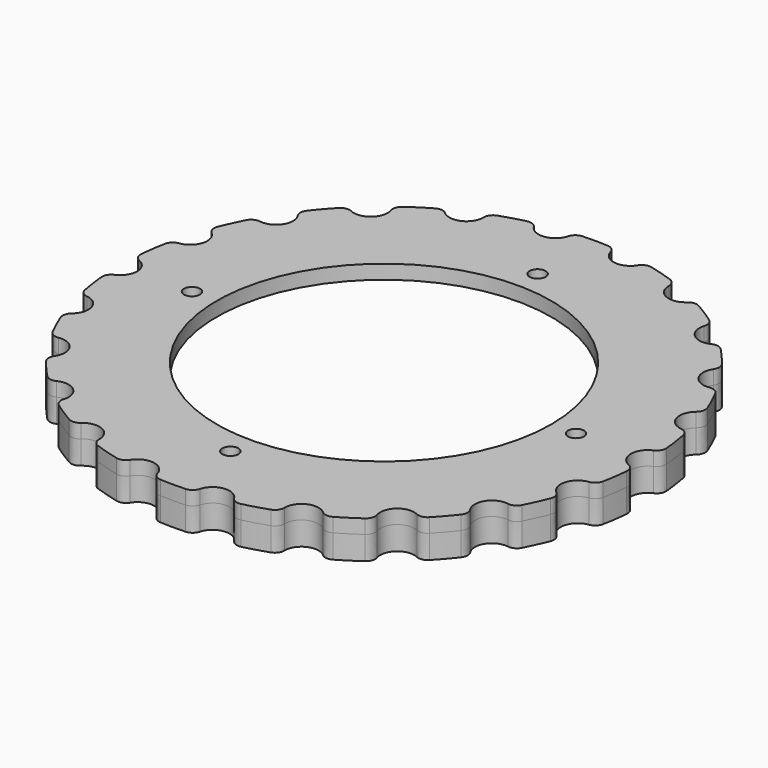
from build123d import *

# Parameters (mm, degrees)
F0_R     = 35.5
F1_DEPTH = 3
F2_R     = 2
F4_D     = 3.4
F5_R     = 46.75
F6_DEPTH = 5


with BuildPart() as f1:
    # F0 (on Top) → F1 (new body)
    with BuildSketch(Plane.XY):
        with BuildLine():
            ThreePointArc((55.8842857143, -3.5981398255), (52.4, 0), (55.8842857143, 3.5981398255))
            ThreePointArc((55.8842857143, 3.5981398255), (55.4300007453, 7.9696309433), (54.6342926112, 12.2920328209))
            ThreePointArc((54.6342926112, 12.2920328209), (50.2774318174, 14.7627859785), (52.6068663454, 19.1968125822))
            ThreePointArc((52.6068663454, 19.1968125822), (50.9393917399, 23.2632407281), (48.9581540435, 27.1863780716))
            ThreePointArc((48.9581540435, 27.1863780716), (44.0816851204, 28.3295788347), (45.0675515303, 33.2402737513))
            ThreePointArc((45.0675515303, 33.2402737513), (42.3219761638, 36.6722011009), (39.3157170005, 39.8782446547))
            ThreePointArc((39.3157170005, 39.8782446547), (34.3147024587, 39.6012776962), (33.8771317173, 44.5908056286))
            ThreePointArc((33.8771317173, 44.5908056286), (30.2758857775, 47.1101978385), (26.4881543857, 49.3394130208))
            ThreePointArc((26.4881543857, 49.3394130208), (21.7677466813, 47.6647165566), (19.9421881675, 52.3288556257))
            ThreePointArc((19.9421881675, 52.3288556257), (15.7770231831, 53.7316065224), (11.5146790336, 54.8033955768))
            ThreePointArc((11.5146790336, 54.8033955768), (7.4572975255, 51.8666435546), (4.3916471332, 55.8275329516))
            ThreePointArc((4.3916471332, 55.8275329516), (0, 56), (-4.3916471332, 55.8275329516))
            ThreePointArc((-4.3916471332, 55.8275329516), (-4.3751392048, 55.6290714411), (-4.3696309433, 55.4300007453))
            ThreePointArc((-4.3696309433, 55.4300007453), (-7.655125876, 51.843765036), (-11.5146790336, 54.8033955768))
            ThreePointArc((-11.5146790336, 54.8033955768), (-15.7770231831, 53.7316065224), (-19.9421881675, 52.3288556257))
            ThreePointArc((-19.9421881675, 52.3288556257), (-19.7336664465, 51.6479856934), (-19.6632407281, 50.9393917399))
            ThreePointArc((-19.6632407281, 50.9393917399), (-22.4415623139, 47.434417477), (-26.4881543857, 49.3394130208))
            ThreePointArc((-26.4881543857, 49.3394130208), (-30.2758857775, 47.1101978385), (-33.8771317173, 44.5908056286))
            ThreePointArc((-33.8771317173, 44.5908056286), (-33.2793962302, 43.5256684457), (-33.0722011009, 42.3219761638))
            ThreePointArc((-33.0722011009, 42.3219761638), (-35.3600763428, 38.9696145158), (-39.3157170005, 39.8782446547))
            ThreePointArc((-39.3157170005, 39.8782446547), (-42.3219761638, 36.6722011009), (-45.0675515303, 33.2402737513))
            ThreePointArc((-45.0675515303, 33.2402737513), (-43.9232301018, 31.950172684), (-43.5101978385, 30.2758857775))
            ThreePointArc((-43.5101978385, 30.2758857775), (-45.3343378128, 27.1443811601), (-48.9581540435, 27.1863780716))
            ThreePointArc((-48.9581540435, 27.1863780716), (-50.9393917399, 23.2632407281), (-52.6068663454, 19.1968125822))
            ThreePointArc((-52.6068663454, 19.1968125822), (-50.8153533923, 17.887821061), (-50.1316065224, 15.7770231831))
            ThreePointArc((-50.1316065224, 15.7770231831), (-51.528162618, 12.9301239998), (-54.6342926112, 12.2920328209))
            ThreePointArc((-54.6342926112, 12.2920328209), (-55.4300007453, 7.9696309433), (-55.8842857143, 3.5981398255))
            ThreePointArc((-55.8842857143, 3.5981398255), (-53.4138279805, 2.5043390916), (-52.4, 0))
            ThreePointArc((-52.4, 0), (-53.4138279805, -2.5043390916), (-55.8842857143, -3.5981398255))
            ThreePointArc((-55.8842857143, -3.5981398255), (-55.4300007453, -7.9696309433), (-54.6342926112, -12.2920328209))
            ThreePointArc((-54.6342926112, -12.2920328209), (-51.528162618, -12.9301239998), (-50.1316065224, -15.7770231831))
            ThreePointArc((-50.1316065224, -15.7770231831), (-50.8153533923, -17.887821061), (-52.6068663454, -19.1968125822))
            ThreePointArc((-52.6068663454, -19.1968125822), (-50.9393917399, -23.2632407281), (-48.9581540435, -27.1863780716))
            ThreePointArc((-48.9581540435, -27.1863780716), (-45.3343378128, -27.1443811601), (-43.5101978385, -30.2758857775))
            ThreePointArc((-43.5101978385, -30.2758857775), (-43.9232301018, -31.950172684), (-45.0675515303, -33.2402737513))
            ThreePointArc((-45.0675515303, -33.2402737513), (-42.3219761638, -36.6722011009), (-39.3157170005, -39.8782446547))
            ThreePointArc((-39.3157170005, -39.8782446547), (-35.3600763428, -38.9696145158), (-33.0722011009, -42.3219761638))
            ThreePointArc((-33.0722011009, -42.3219761638), (-33.2793962302, -43.5256684457), (-33.8771317173, -44.5908056286))
            ThreePointArc((-33.8771317173, -44.5908056286), (-30.2758857775, -47.1101978385), (-26.4881543857, -49.3394130208))
            ThreePointArc((-26.4881543857, -49.3394130208), (-22.4415623139, -47.434417477), (-19.6632407281, -50.9393917399))
            ThreePointArc((-19.6632407281, -50.9393917399), (-19.7336664465, -51.6479856934), (-19.9421881675, -52.3288556257))
            ThreePointArc((-19.9421881675, -52.3288556257), (-15.7770231831, -53.7316065224), (-11.5146790336, -54.8033955768))
            ThreePointArc((-11.5146790336, -54.8033955768), (-7.655125876, -51.843765036), (-4.3696309433, -55.4300007453))
            ThreePointArc((-4.3696309433, -55.4300007453), (-4.3751392048, -55.6290714411), (-4.3916471332, -55.8275329516))
            ThreePointArc((-4.3916471333, -55.8275329516), (0, -56), (4.3916471332, -55.8275329516))
            ThreePointArc((4.3916471332, -55.8275329516), (7.4572975255, -51.8666435546), (11.5146790336, -54.8033955768))
            ThreePointArc((11.5146790336, -54.8033955768), (15.7770231831, -53.7316065224), (19.9421881675, -52.3288556257))
            ThreePointArc((19.9421881675, -52.3288556257), (21.7677466813, -47.6647165566), (26.4881543857, -49.3394130208))
            ThreePointArc((26.4881543857, -49.3394130208), (30.2758857775, -47.1101978385), (33.8771317173, -44.5908056286))
            ThreePointArc((33.8771317173, -44.5908056286), (34.3147024587, -39.6012776962), (39.3157170005, -39.8782446547))
            ThreePointArc((39.3157170005, -39.8782446547), (42.3219761638, -36.6722011009), (45.0675515303, -33.2402737513))
            ThreePointArc((45.0675515303, -33.2402737513), (44.0816851204, -28.3295788347), (48.9581540435, -27.1863780716))
            ThreePointArc((48.9581540435, -27.1863780716), (50.9393917399, -23.2632407281), (52.6068663454, -19.1968125822))
            ThreePointArc((52.6068663454, -19.1968125822), (50.2774318174, -14.7627859785), (54.6342926112, -12.2920328209))
            ThreePointArc((54.6342926112, -12.2920328209), (55.4300007453, -7.9696309433), (55.8842857143, -3.5981398255))
        make_face()
        Circle(F0_R, mode=Mode.SUBTRACT)
    extrude(amount=F1_DEPTH)

    # F2
    f2_edges = [f1.edges().sort_by_distance(p)[0] for p in [
        (-26.488154, 49.339413, 1.5),
        (-33.877132, 44.590806, 1.5),
        (-39.315717, 39.878245, 1.5),
        (-45.067552, 33.240274, 1.5),
        (-48.958154, 27.186378, 1.5),
        (-52.606866, 19.196813, 1.5),
        (-54.634293, 12.292033, 1.5),
        (-55.884286, 3.59814, 1.5),
        (-55.884286, -3.59814, 1.5),
        (-54.634293, -12.292033, 1.5),
        (-52.606866, -19.196813, 1.5),
        (-48.958154, -27.186378, 1.5),
        (-45.067552, -33.240274, 1.5),
        (-39.315717, -39.878245, 1.5),
        (-33.877132, -44.590806, 1.5),
        (-26.488154, -49.339413, 1.5),
        (-19.942188, -52.328856, 1.5),
        (-11.514679, -54.803396, 1.5),
        (-4.391647, -55.827533, 1.5),
        (4.391647, -55.827533, 1.5),
        (11.514679, -54.803396, 1.5),
        (19.942188, -52.328856, 1.5),
        (33.877132, -44.590806, 1.5),
        (26.488154, -49.339413, 1.5),
        (39.315717, -39.878245, 1.5),
        (45.067552, -33.240274, 1.5),
        (52.606866, -19.196813, 1.5),
        (48.958154, -27.186378, 1.5),
        (55.884286, -3.59814, 1.5),
        (54.634293, -12.292033, 1.5),
        (55.884286, 3.59814, 1.5),
        (54.634293, 12.292033, 1.5),
        (52.606866, 19.196813, 1.5),
        (48.958154, 27.186378, 1.5),
        (45.067552, 33.240274, 1.5),
        (39.315717, 39.878245, 1.5),
        (33.877132, 44.590806, 1.5),
        (26.488154, 49.339413, 1.5),
        (19.942188, 52.328856, 1.5),
        (11.514679, 54.803396, 1.5),
        (4.391647, 55.827533, 1.5),
        (-4.391647, 55.827533, 1.5),
        (-19.942188, 52.328856, 1.5),
        (-11.514679, 54.803396, 1.5),
    ]]
    fillet(f2_edges, radius=F2_R)

    # F4 (through all)
    with Locations(Plane.XY.offset(3)):
        with Locations((0, 40.75), (40.75, 0), (0, -40.75), (-40.75, 0)):
            Hole(F4_D / 2)

    # F5 (on face) → F6 (join)
    with BuildSketch(Plane(origin=(0, 0, 0), x_dir=(1, 0, 0), z_dir=(0, 0, -1))):
        with BuildLine():
            add(Edge.make_bspline(
                [(54.557244898, -3.2982507054), (54.6241422245, -3.3275136292), (54.6903183715, -3.360098174), (54.7554797201, -3.3960095108), (54.8193275762, -3.4352071462), (55.0246633404, -3.5750602637), (55.1593060917, -3.6894306964), (55.2819026862, -3.8195908053), (55.3893411634, -3.9631334462), (55.5699851774, -4.270284034), (55.6432204557, -4.433942551), (55.6973931082, -4.6043447301), (55.7319118023, -4.7776009742), (55.7543445193, -5.025024586), (55.7575715904, -5.0998750327), (55.7572882145, -5.1742762771), (55.7536041672, -5.2479475929), (55.7466666667, -5.3206348828)],
                knots=[0, 0, 0, 0, 0, 0, 0.15156618, 0.15156618, 0.15156618, 0.15156618, 0.5, 0.5, 0.5, 0.5, 0.84843382, 0.84843382, 0.84843382, 0.84843382, 1, 1, 1, 1, 1, 1], degree=5))
            ThreePointArc((54.557244898, -3.2982507054), (52.4, 0), (54.557244898, 3.2982507054))
            add(Edge.make_bspline(
                [(54.557244898, 3.2982507054), (54.6241422245, 3.3275136292), (54.6903183715, 3.360098174), (54.7554797201, 3.3960095108), (54.8193275762, 3.4352071462), (55.0246633404, 3.5750602637), (55.1593060917, 3.6894306964), (55.2819026862, 3.8195908053), (55.3893411634, 3.9631334462), (55.5699851774, 4.270284034), (55.6432204557, 4.433942551), (55.6973931082, 4.6043447301), (55.7319118023, 4.7776009742), (55.7543445193, 5.025024586), (55.7575715904, 5.0998750327), (55.7572882145, 5.1742762771), (55.7536041672, 5.2479475929), (55.7466666667, 5.3206348828)],
                knots=[0, 0, 0, 0, 0, 0, 0.15156618, 0.15156618, 0.15156618, 0.15156618, 0.5, 0.5, 0.5, 0.5, 0.84843382, 0.84843382, 0.84843382, 0.84843382, 1, 1, 1, 1, 1, 1], degree=5))
            ThreePointArc((55.7466666667, 5.3206348828), (55.4300007453, 7.9696309433), (54.9875310386, 10.6005391502))
            add(Edge.make_bspline(
                [(53.2765177437, 12.2059037223), (53.3489495769, 12.1966733073), (53.421625252, 12.1840526407), (53.4942645009, 12.1679540387), (53.5665693203, 12.1483322027), (53.8029887196, 12.0719938889), (53.9643993678, 12.000189509), (54.1187002791, 11.9098412511), (54.2622273784, 11.8023820127), (54.5220883609, 11.5585664817), (54.6384650283, 11.4221700468), (54.7384511493, 11.2739325531), (54.8203835184, 11.1174194443), (54.9116148396, 10.8863382539), (54.9357989994, 10.8154289472), (54.9564883549, 10.7439616398), (54.9737091456, 10.6722366138), (54.9875310386, 10.6005391502)],
                knots=[0, 0, 0, 0, 0, 0, 0.15156618, 0.15156618, 0.15156618, 0.15156618, 0.5, 0.5, 0.5, 0.5, 0.84843382, 0.84843382, 0.84843382, 0.84843382, 1, 1, 1, 1, 1, 1], degree=5))
            ThreePointArc((53.2765177437, 12.2059037223), (50.2774318174, 14.7627859785), (51.418068535, 18.5352004764))
            add(Edge.make_bspline(
                [(51.418068535, 18.5352004764), (51.4740117315, 18.582125201), (51.5283271524, 18.6320338178), (51.5807316158, 18.6848485665), (51.6309499351, 18.7404464421), (51.7885669816, 18.9324842955), (51.885533881, 19.0801551686), (51.9664941118, 19.2395823306), (52.0291399406, 19.4075794028), (52.1159322822, 19.7531815337), (52.1400930847, 19.9308434929), (52.1440635225, 20.1096053864), (52.1283720424, 20.2855685751), (52.0801887899, 20.529289819), (52.0621973343, 20.6020174676), (52.0409641842, 20.6733251026), (52.0166737586, 20.7429742965), (51.9895388996, 20.8107627206)],
                knots=[0, 0, 0, 0, 0, 0, 0.15156618, 0.15156618, 0.15156618, 0.15156618, 0.5, 0.5, 0.5, 0.5, 0.84843382, 0.84843382, 0.84843382, 0.84843382, 1, 1, 1, 1, 1, 1], degree=5))
            ThreePointArc((51.9895388996, 20.8107627206), (50.9393917399, 23.2632407281), (49.7736326693, 25.6629205451))
            add(Edge.make_bspline(
                [(49.7736326693, 25.6629205451), (49.7401711503, 25.7278196804), (49.7034406477, 25.7917876814), (49.6634546891, 25.8545311957), (49.6202726975, 25.915754712), (49.4676337912, 26.1117726572), (49.3449254205, 26.2388628696), (49.2072261117, 26.3529263577), (49.0571362008, 26.4510106825), (48.739110641, 26.6117386723), (48.5711226317, 26.6744087999), (48.3976179457, 26.7176257282), (48.2225159314, 26.7410468916), (47.9741661906, 26.7476859254), (47.8992621144, 26.7461423176), (47.8250297652, 26.7411239718), (47.7517423129, 26.732758309), (47.6796439695, 26.7212084217)],
                knots=[0, 0, 0, 0, 0, 0, 0.15156618, 0.15156618, 0.15156618, 0.15156618, 0.5, 0.5, 0.5, 0.5, 0.84843382, 0.84843382, 0.84843382, 0.84843382, 1, 1, 1, 1, 1, 1], degree=5))
            ThreePointArc((47.6796439695, 26.7212084217), (44.0816851204, 28.3295788347), (44.1133060544, 32.2705385378))
            add(Edge.make_bspline(
                [(44.1133060544, 32.2705385378), (44.1537629357, 32.3313235012), (44.1918173182, 32.3945128908), (44.2272193984, 32.4599523145), (44.2597397913, 32.5274462209), (44.3568689245, 32.7561110455), (44.4083042905, 32.9251189431), (44.4410692411, 33.1008973177), (44.4538472289, 33.2797386976), (44.4397564989, 33.6357937421), (44.4128854611, 33.8130660284), (44.366332023, 33.9857054108), (44.3017015989, 34.1501200531), (44.1868058976, 34.3703940832), (44.1490534759, 34.4351069722), (44.1085907353, 34.4975440773), (44.0656617971, 34.5575285857), (44.0205278845, 34.6149263291)],
                knots=[0, 0, 0, 0, 0, 0, 0.15156618, 0.15156618, 0.15156618, 0.15156618, 0.5, 0.5, 0.5, 0.5, 0.84843382, 0.84843382, 0.84843382, 0.84843382, 1, 1, 1, 1, 1, 1], degree=5))
            ThreePointArc((44.0205278845, 34.6149263291), (42.3219761638, 36.6722011009), (40.5273705963, 38.6462447406))
            add(Edge.make_bspline(
                [(40.5273705963, 38.6462447406), (40.4769803046, 38.6990878057), (40.4237157769, 38.7501164748), (40.3676726399, 38.7990530895), (40.3089911646, 38.8456308504), (40.1073105696, 38.9907053421), (39.9537672996, 39.0780765648), (39.7895103823, 39.1487253019), (39.6178666197, 39.200551308), (39.2674410221, 39.2651705308), (39.0886014923, 39.2779743865), (38.9099493495, 39.2705588068), (38.7353416928, 39.2436993103), (38.4951814295, 39.1801012091), (38.4237463793, 39.1575172113), (38.3539347932, 39.1317884742), (38.2859728772, 39.1031142182), (38.2200490026, 39.0717197319)],
                knots=[0, 0, 0, 0, 0, 0, 0.15156618, 0.15156618, 0.15156618, 0.15156618, 0.5, 0.5, 0.5, 0.5, 0.84843382, 0.84843382, 0.84843382, 0.84843382, 1, 1, 1, 1, 1, 1], degree=5))
            ThreePointArc((38.2200490026, 39.0717197319), (34.3147024587, 39.6012776962), (33.2347458692, 43.3915094872))
            add(Edge.make_bspline(
                [(33.2347458692, 43.3915094872), (33.2564388593, 43.4612302531), (33.2751492637, 43.5325811869), (33.2906808948, 43.6053437728), (33.3028687524, 43.6792657552), (33.3316411476, 43.9260324867), (33.3333779927, 44.1026853941), (33.3152932417, 44.2805744627), (33.277168192, 44.4557714853), (33.1633359375, 44.7934339814), (33.0876099911, 44.9559550483), (32.9943041597, 45.1084857035), (32.8859707643, 45.2480319029), (32.7136707805, 45.4270134274), (32.6592158695, 45.4784689034), (32.6028015889, 45.5269771957), (32.5447119854, 45.5724374305), (32.4852355004, 45.6147944694)],
                knots=[0, 0, 0, 0, 0, 0, 0.15156618, 0.15156618, 0.15156618, 0.15156618, 0.5, 0.5, 0.5, 0.5, 0.84843382, 0.84843382, 0.84843382, 0.84843382, 1, 1, 1, 1, 1, 1], degree=5))
            ThreePointArc((32.4852355004, 45.6147944694), (30.2758857775, 47.1101978385), (27.9978219831, 48.4986800254))
            add(Edge.make_bspline(
                [(27.9978219831, 48.4986800254), (27.9345852405, 48.5351859893), (27.869101863, 48.5691412871), (27.8015418292, 48.6003064489), (27.7321148943, 48.628465001), (27.4977315731, 48.7108429668), (27.3257925664, 48.7514169031), (27.148285159, 48.7729273486), (26.9689931016, 48.7742964012), (26.6145568641, 48.7375717918), (26.4393543288, 48.6994720834), (26.2700280633, 48.6420247618), (26.1100604382, 48.5670606021), (25.8975460087, 48.4383777059), (25.8353672274, 48.3965829394), (25.7756321239, 48.3522282002), (25.7185016146, 48.3055683687), (25.6640929689, 48.2568726779)],
                knots=[0, 0, 0, 0, 0, 0, 0.15156618, 0.15156618, 0.15156618, 0.15156618, 0.5, 0.5, 0.5, 0.5, 0.84843382, 0.84843382, 0.84843382, 0.84843382, 1, 1, 1, 1, 1, 1], degree=5))
            ThreePointArc((25.6640929689, 48.2568726779), (21.7677466813, 47.6647165566), (19.6637042283, 50.9971583972))
            add(Edge.make_bspline(
                [(19.6637042283, 50.9971583972), (19.6648758903, 51.0701666038), (19.6627265108, 51.1438986534), (19.6571294123, 51.2180896095), (19.647997347, 51.2924509485), (19.6060820358, 51.537328014), (19.5579796512, 51.7073145632), (19.4905103175, 51.8729028115), (19.4045708951, 52.0302620559), (19.2002191284, 52.3221765962), (19.0817731391, 52.4567799535), (18.949273998, 52.576844755), (18.8060141588, 52.6802173084), (18.5902686125, 52.8034063085), (18.5235228251, 52.8374357549), (18.4557273541, 52.868085381), (18.3871831596, 52.8953384244), (18.3181825332, 52.9192232434)],
                knots=[0, 0, 0, 0, 0, 0, 0.15156618, 0.15156618, 0.15156618, 0.15156618, 0.5, 0.5, 0.5, 0.5, 0.84843382, 0.84843382, 0.84843382, 0.84843382, 1, 1, 1, 1, 1, 1], degree=5))
            ThreePointArc((18.3181825332, 52.9192232434), (15.7770231831, 53.7316065224), (13.2000563423, 54.4220406872))
            add(Edge.make_bspline(
                [(13.2000563423, 54.4220406872), (13.1290962136, 54.4392520539), (13.0566990601, 54.4533831243), (12.9830954417, 54.4642520169), (12.9085476045, 54.4717101219), (12.6604498998, 54.4847177889), (12.4840446321, 54.4752073797), (12.3076673292, 54.4458368853), (12.1352521532, 54.3966380719), (11.8055195918, 54.2615448398), (11.6481479185, 54.1756281791), (11.5018653373, 54.0728031559), (11.3694973694, 53.9558074834), (11.2018454289, 53.772464915), (11.1539602715, 53.7148453432), (11.1091410336, 53.6554579592), (11.0674703049, 53.5945926542), (11.0289847532, 53.5325407942)],
                knots=[0, 0, 0, 0, 0, 0, 0.15156618, 0.15156618, 0.15156618, 0.15156618, 0.5, 0.5, 0.5, 0.5, 0.84843382, 0.84843382, 0.84843382, 0.84843382, 1, 1, 1, 1, 1, 1], degree=5))
            ThreePointArc((11.0289847532, 53.5325407942), (7.4572975255, 51.8666435546), (4.4996262154, 54.4713208257))
            add(Edge.make_bspline(
                [(4.4996262154, 54.4713208257), (4.4801816281, 54.5417017822), (4.4573465947, 54.6118416156), (4.4310742104, 54.6814504318), (4.4013620477, 54.7502268139), (4.2921547593, 54.9733757298), (4.1981101141, 55.1229246217), (4.0867221619, 55.2627970745), (3.9599306677, 55.3895702307), (3.6816147535, 55.6120876353), (3.5300445112, 55.7078685194), (3.3690863527, 55.785740531), (3.2025061298, 55.8445648089), (2.9607934421, 55.9019812445), (2.8871641251, 55.9158277979), (2.8134798495, 55.9261357074), (2.7400341069, 55.9329736798), (2.6670993596, 55.9364512729)],
                knots=[0, 0, 0, 0, 0, 0, 0.15156618, 0.15156618, 0.15156618, 0.15156618, 0.5, 0.5, 0.5, 0.5, 0.84843382, 0.84843382, 0.84843382, 0.84843382, 1, 1, 1, 1, 1, 1], degree=5))
            ThreePointArc((2.6670993596, 55.9364512729), (0, 56), (-2.6670993596, 55.9364512729))
            add(Edge.make_bspline(
                [(-2.6670993596, 55.9364512729), (-2.7400341069, 55.9329736798), (-2.8134798495, 55.9261357074), (-2.8871641251, 55.9158277979), (-2.9607934421, 55.9019812445), (-3.2025061298, 55.8445648089), (-3.3690863527, 55.785740531), (-3.5300445112, 55.7078685194), (-3.6816147535, 55.6120876353), (-3.9599306677, 55.3895702307), (-4.0867221619, 55.2627970745), (-4.1981101141, 55.1229246217), (-4.2921547593, 54.9733757298), (-4.4013620477, 54.7502268139), (-4.4310742104, 54.6814504318), (-4.4573465947, 54.6118416156), (-4.4801816281, 54.5417017822), (-4.4996262154, 54.4713208257)],
                knots=[0, 0, 0, 0, 0, 0, 0.15156618, 0.15156618, 0.15156618, 0.15156618, 0.5, 0.5, 0.5, 0.5, 0.84843382, 0.84843382, 0.84843382, 0.84843382, 1, 1, 1, 1, 1, 1], degree=5))
            ThreePointArc((-4.4996262154, 54.4713208257), (-7.4572975255, 51.8666435546), (-11.0289847532, 53.5325407942))
            add(Edge.make_bspline(
                [(-11.0289847532, 53.5325407942), (-11.0674703049, 53.5945926542), (-11.1091410336, 53.6554579592), (-11.1539602715, 53.7148453432), (-11.2018454289, 53.772464915), (-11.3694973694, 53.9558074834), (-11.5018653373, 54.0728031559), (-11.6481479185, 54.1756281791), (-11.8055195918, 54.2615448398), (-12.1352521532, 54.3966380719), (-12.3076673292, 54.4458368853), (-12.4840446321, 54.4752073797), (-12.6604498998, 54.4847177889), (-12.9085476045, 54.4717101219), (-12.9830954417, 54.4642520169), (-13.0566990601, 54.4533831243), (-13.1290962136, 54.4392520539), (-13.2000563423, 54.4220406872)],
                knots=[0, 0, 0, 0, 0, 0, 0.15156618, 0.15156618, 0.15156618, 0.15156618, 0.5, 0.5, 0.5, 0.5, 0.84843382, 0.84843382, 0.84843382, 0.84843382, 1, 1, 1, 1, 1, 1], degree=5))
            ThreePointArc((-13.2000563423, 54.4220406872), (-15.7770231831, 53.7316065224), (-18.3181825332, 52.9192232434))
            add(Edge.make_bspline(
                [(-18.3181825332, 52.9192232434), (-18.3871831596, 52.8953384244), (-18.4557273541, 52.868085381), (-18.5235228251, 52.8374357549), (-18.5902686125, 52.8034063085), (-18.8060141588, 52.6802173084), (-18.949273998, 52.576844755), (-19.0817731391, 52.4567799535), (-19.2002191284, 52.3221765962), (-19.4045708951, 52.0302620559), (-19.4905103175, 51.8729028115), (-19.5579796512, 51.7073145632), (-19.6060820358, 51.537328014), (-19.647997347, 51.2924509485), (-19.6571294123, 51.2180896095), (-19.6627265108, 51.1438986534), (-19.6648758903, 51.0701666038), (-19.6637042283, 50.9971583972)],
                knots=[0, 0, 0, 0, 0, 0, 0.15156618, 0.15156618, 0.15156618, 0.15156618, 0.5, 0.5, 0.5, 0.5, 0.84843382, 0.84843382, 0.84843382, 0.84843382, 1, 1, 1, 1, 1, 1], degree=5))
            ThreePointArc((-19.6637042283, 50.9971583972), (-21.7677466813, 47.6647165566), (-25.6640929689, 48.2568726779))
            add(Edge.make_bspline(
                [(-25.6640929689, 48.2568726779), (-25.7185016146, 48.3055683687), (-25.7756321239, 48.3522282002), (-25.8353672274, 48.3965829394), (-25.8975460087, 48.4383777059), (-26.1100604382, 48.5670606021), (-26.2700280633, 48.6420247618), (-26.4393543288, 48.6994720834), (-26.6145568641, 48.7375717918), (-26.9689931016, 48.7742964012), (-27.148285159, 48.7729273486), (-27.3257925664, 48.7514169031), (-27.4977315731, 48.7108429668), (-27.7321148943, 48.628465001), (-27.8015418292, 48.6003064489), (-27.869101863, 48.5691412871), (-27.9345852405, 48.5351859893), (-27.9978219831, 48.4986800254)],
                knots=[0, 0, 0, 0, 0, 0, 0.15156618, 0.15156618, 0.15156618, 0.15156618, 0.5, 0.5, 0.5, 0.5, 0.84843382, 0.84843382, 0.84843382, 0.84843382, 1, 1, 1, 1, 1, 1], degree=5))
            ThreePointArc((-27.9978219831, 48.4986800254), (-30.2758857775, 47.1101978385), (-32.4852355004, 45.6147944694))
            add(Edge.make_bspline(
                [(-32.4852355004, 45.6147944694), (-32.5447119854, 45.5724374305), (-32.6028015889, 45.5269771957), (-32.6592158695, 45.4784689034), (-32.7136707805, 45.4270134274), (-32.8859707643, 45.2480319029), (-32.9943041597, 45.1084857035), (-33.0876099911, 44.9559550483), (-33.1633359375, 44.7934339814), (-33.277168192, 44.4557714853), (-33.3152932417, 44.2805744627), (-33.3333779927, 44.1026853941), (-33.3316411476, 43.9260324867), (-33.3028687524, 43.6792657552), (-33.2906808948, 43.6053437728), (-33.2751492637, 43.5325811869), (-33.2564388593, 43.4612302531), (-33.2347458692, 43.3915094872)],
                knots=[0, 0, 0, 0, 0, 0, 0.15156618, 0.15156618, 0.15156618, 0.15156618, 0.5, 0.5, 0.5, 0.5, 0.84843382, 0.84843382, 0.84843382, 0.84843382, 1, 1, 1, 1, 1, 1], degree=5))
            ThreePointArc((-33.2347458692, 43.3915094872), (-34.3147024587, 39.6012776962), (-38.2200490026, 39.0717197319))
            add(Edge.make_bspline(
                [(-38.2200490026, 39.0717197319), (-38.2859728772, 39.1031142182), (-38.3539347932, 39.1317884742), (-38.4237463793, 39.1575172113), (-38.4951814295, 39.1801012091), (-38.7353416928, 39.2436993103), (-38.9099493495, 39.2705588068), (-39.0886014923, 39.2779743865), (-39.2674410221, 39.2651705308), (-39.6178666197, 39.200551308), (-39.7895103823, 39.1487253019), (-39.9537672996, 39.0780765648), (-40.1073105696, 38.9907053421), (-40.3089911646, 38.8456308504), (-40.3676726399, 38.7990530895), (-40.4237157769, 38.7501164748), (-40.4769803046, 38.6990878057), (-40.5273705963, 38.6462447406)],
                knots=[0, 0, 0, 0, 0, 0, 0.15156618, 0.15156618, 0.15156618, 0.15156618, 0.5, 0.5, 0.5, 0.5, 0.84843382, 0.84843382, 0.84843382, 0.84843382, 1, 1, 1, 1, 1, 1], degree=5))
            ThreePointArc((-40.5273705963, 38.6462447406), (-42.3219761638, 36.6722011009), (-44.0205278845, 34.6149263291))
            add(Edge.make_bspline(
                [(-44.0205278845, 34.6149263291), (-44.0656617971, 34.5575285857), (-44.1085907353, 34.4975440773), (-44.1490534759, 34.4351069722), (-44.1868058976, 34.3703940832), (-44.3017015989, 34.1501200531), (-44.366332023, 33.9857054108), (-44.4128854611, 33.8130660284), (-44.4397564989, 33.6357937421), (-44.4538472289, 33.2797386976), (-44.4410692411, 33.1008973177), (-44.4083042905, 32.9251189431), (-44.3568689245, 32.7561110455), (-44.2597397913, 32.5274462209), (-44.2272193984, 32.4599523145), (-44.1918173182, 32.3945128908), (-44.1537629357, 32.3313235012), (-44.1133060544, 32.2705385378)],
                knots=[0, 0, 0, 0, 0, 0, 0.15156618, 0.15156618, 0.15156618, 0.15156618, 0.5, 0.5, 0.5, 0.5, 0.84843382, 0.84843382, 0.84843382, 0.84843382, 1, 1, 1, 1, 1, 1], degree=5))
            ThreePointArc((-44.1133060544, 32.2705385378), (-44.0816851204, 28.3295788347), (-47.6796439695, 26.7212084217))
            add(Edge.make_bspline(
                [(-47.6796439695, 26.7212084217), (-47.7517423129, 26.732758309), (-47.8250297652, 26.7411239718), (-47.8992621144, 26.7461423176), (-47.9741661906, 26.7476859254), (-48.2225159314, 26.7410468916), (-48.3976179457, 26.7176257282), (-48.5711226317, 26.6744087999), (-48.739110641, 26.6117386723), (-49.0571362008, 26.4510106825), (-49.2072261117, 26.3529263577), (-49.3449254205, 26.2388628696), (-49.4676337912, 26.1117726572), (-49.6202726975, 25.915754712), (-49.6634546891, 25.8545311957), (-49.7034406477, 25.7917876814), (-49.7401711503, 25.7278196804), (-49.7736326693, 25.6629205451)],
                knots=[0, 0, 0, 0, 0, 0, 0.15156618, 0.15156618, 0.15156618, 0.15156618, 0.5, 0.5, 0.5, 0.5, 0.84843382, 0.84843382, 0.84843382, 0.84843382, 1, 1, 1, 1, 1, 1], degree=5))
            ThreePointArc((-49.7736326693, 25.6629205451), (-50.9393917399, 23.2632407281), (-51.9895388996, 20.8107627206))
            add(Edge.make_bspline(
                [(-51.9895388996, 20.8107627206), (-52.0166737586, 20.7429742965), (-52.0409641842, 20.6733251026), (-52.0621973343, 20.6020174676), (-52.0801887899, 20.529289819), (-52.1283720424, 20.2855685751), (-52.1440635225, 20.1096053864), (-52.1400930847, 19.9308434929), (-52.1159322822, 19.7531815337), (-52.0291399406, 19.4075794028), (-51.9664941118, 19.2395823306), (-51.885533881, 19.0801551686), (-51.7885669816, 18.9324842955), (-51.6309499351, 18.7404464421), (-51.5807316158, 18.6848485665), (-51.5283271524, 18.6320338178), (-51.4740117315, 18.582125201), (-51.418068535, 18.5352004764)],
                knots=[0, 0, 0, 0, 0, 0, 0.15156618, 0.15156618, 0.15156618, 0.15156618, 0.5, 0.5, 0.5, 0.5, 0.84843382, 0.84843382, 0.84843382, 0.84843382, 1, 1, 1, 1, 1, 1], degree=5))
            ThreePointArc((-51.418068535, 18.5352004764), (-50.2774318174, 14.7627859785), (-53.2765177437, 12.2059037223))
            add(Edge.make_bspline(
                [(-53.2765177437, 12.2059037223), (-53.3489495769, 12.1966733073), (-53.421625252, 12.1840526407), (-53.4942645009, 12.1679540387), (-53.5665693203, 12.1483322027), (-53.8029887196, 12.0719938889), (-53.9643993678, 12.000189509), (-54.1187002791, 11.9098412511), (-54.2622273784, 11.8023820127), (-54.5220883609, 11.5585664817), (-54.6384650283, 11.4221700468), (-54.7384511493, 11.2739325531), (-54.8203835184, 11.1174194443), (-54.9116148396, 10.8863382539), (-54.9357989994, 10.8154289472), (-54.9564883549, 10.7439616398), (-54.9737091456, 10.6722366138), (-54.9875310386, 10.6005391502)],
                knots=[0, 0, 0, 0, 0, 0, 0.15156618, 0.15156618, 0.15156618, 0.15156618, 0.5, 0.5, 0.5, 0.5, 0.84843382, 0.84843382, 0.84843382, 0.84843382, 1, 1, 1, 1, 1, 1], degree=5))
            ThreePointArc((-54.9875310386, 10.6005391502), (-55.4300007453, 7.9696309433), (-55.7466666667, 5.3206348828))
            add(Edge.make_bspline(
                [(-55.7466666667, 5.3206348828), (-55.7536041672, 5.2479475929), (-55.7572882145, 5.1742762771), (-55.7575715904, 5.0998750327), (-55.7543445193, 5.025024586), (-55.7319118023, 4.7776009742), (-55.6973931082, 4.6043447301), (-55.6432204557, 4.433942551), (-55.5699851774, 4.270284034), (-55.3893411634, 3.9631334462), (-55.2819026862, 3.8195908053), (-55.1593060917, 3.6894306964), (-55.0246633404, 3.5750602637), (-54.8193275762, 3.4352071462), (-54.7554797201, 3.3960095108), (-54.6903183715, 3.360098174), (-54.6241422245, 3.3275136292), (-54.557244898, 3.2982507054)],
                knots=[0, 0, 0, 0, 0, 0, 0.15156618, 0.15156618, 0.15156618, 0.15156618, 0.5, 0.5, 0.5, 0.5, 0.84843382, 0.84843382, 0.84843382, 0.84843382, 1, 1, 1, 1, 1, 1], degree=5))
            ThreePointArc((-54.557244898, 3.2982507054), (-52.4, 0), (-54.557244898, -3.2982507054))
            add(Edge.make_bspline(
                [(-54.557244898, -3.2982507054), (-54.6241422245, -3.3275136292), (-54.6903183715, -3.360098174), (-54.7554797201, -3.3960095108), (-54.8193275762, -3.4352071462), (-55.0246633404, -3.5750602637), (-55.1593060917, -3.6894306964), (-55.2819026862, -3.8195908053), (-55.3893411634, -3.9631334462), (-55.5699851774, -4.270284034), (-55.6432204557, -4.433942551), (-55.6973931082, -4.6043447301), (-55.7319118023, -4.7776009742), (-55.7543445193, -5.025024586), (-55.7575715904, -5.0998750327), (-55.7572882145, -5.1742762771), (-55.7536041672, -5.2479475929), (-55.7466666667, -5.3206348828)],
                knots=[0, 0, 0, 0, 0, 0, 0.15156618, 0.15156618, 0.15156618, 0.15156618, 0.5, 0.5, 0.5, 0.5, 0.84843382, 0.84843382, 0.84843382, 0.84843382, 1, 1, 1, 1, 1, 1], degree=5))
            ThreePointArc((-55.7466666667, -5.3206348828), (-55.4300007453, -7.9696309433), (-54.9875310386, -10.6005391502))
            add(Edge.make_bspline(
                [(-54.9875310386, -10.6005391502), (-54.9737091456, -10.6722366138), (-54.9564883549, -10.7439616398), (-54.9357989994, -10.8154289472), (-54.9116148396, -10.8863382539), (-54.8203835184, -11.1174194443), (-54.7384511493, -11.2739325531), (-54.6384650283, -11.4221700468), (-54.5220883609, -11.5585664817), (-54.2622273784, -11.8023820127), (-54.1187002791, -11.9098412511), (-53.9643993678, -12.000189509), (-53.8029887196, -12.0719938889), (-53.5665693203, -12.1483322027), (-53.4942645009, -12.1679540387), (-53.421625252, -12.1840526407), (-53.3489495769, -12.1966733073), (-53.2765177437, -12.2059037223)],
                knots=[0, 0, 0, 0, 0, 0, 0.15156618, 0.15156618, 0.15156618, 0.15156618, 0.5, 0.5, 0.5, 0.5, 0.84843382, 0.84843382, 0.84843382, 0.84843382, 1, 1, 1, 1, 1, 1], degree=5))
            ThreePointArc((-53.2765177437, -12.2059037223), (-50.2774318174, -14.7627859785), (-51.418068535, -18.5352004764))
            add(Edge.make_bspline(
                [(-51.418068535, -18.5352004764), (-51.4740117315, -18.582125201), (-51.5283271524, -18.6320338178), (-51.5807316158, -18.6848485665), (-51.6309499351, -18.7404464421), (-51.7885669816, -18.9324842955), (-51.885533881, -19.0801551686), (-51.9664941118, -19.2395823306), (-52.0291399406, -19.4075794028), (-52.1159322822, -19.7531815337), (-52.1400930847, -19.9308434929), (-52.1440635225, -20.1096053864), (-52.1283720424, -20.2855685751), (-52.0801887899, -20.529289819), (-52.0621973343, -20.6020174676), (-52.0409641842, -20.6733251026), (-52.0166737586, -20.7429742965), (-51.9895388996, -20.8107627206)],
                knots=[0, 0, 0, 0, 0, 0, 0.15156618, 0.15156618, 0.15156618, 0.15156618, 0.5, 0.5, 0.5, 0.5, 0.84843382, 0.84843382, 0.84843382, 0.84843382, 1, 1, 1, 1, 1, 1], degree=5))
            ThreePointArc((-51.9895388996, -20.8107627206), (-50.9393917399, -23.2632407281), (-49.7736326693, -25.6629205451))
            add(Edge.make_bspline(
                [(-49.7736326693, -25.6629205451), (-49.7401711503, -25.7278196804), (-49.7034406477, -25.7917876814), (-49.6634546891, -25.8545311957), (-49.6202726975, -25.915754712), (-49.4676337912, -26.1117726572), (-49.3449254205, -26.2388628696), (-49.2072261117, -26.3529263577), (-49.0571362008, -26.4510106825), (-48.739110641, -26.6117386723), (-48.5711226317, -26.6744087999), (-48.3976179457, -26.7176257282), (-48.2225159314, -26.7410468916), (-47.9741661906, -26.7476859254), (-47.8992621144, -26.7461423176), (-47.8250297652, -26.7411239718), (-47.7517423129, -26.732758309), (-47.6796439695, -26.7212084217)],
                knots=[0, 0, 0, 0, 0, 0, 0.15156618, 0.15156618, 0.15156618, 0.15156618, 0.5, 0.5, 0.5, 0.5, 0.84843382, 0.84843382, 0.84843382, 0.84843382, 1, 1, 1, 1, 1, 1], degree=5))
            ThreePointArc((-47.6796439695, -26.7212084217), (-44.0816851204, -28.3295788347), (-44.1133060544, -32.2705385378))
            add(Edge.make_bspline(
                [(-44.1133060544, -32.2705385378), (-44.1537629357, -32.3313235012), (-44.1918173182, -32.3945128908), (-44.2272193984, -32.4599523145), (-44.2597397913, -32.5274462209), (-44.3568689245, -32.7561110455), (-44.4083042905, -32.9251189431), (-44.4410692411, -33.1008973177), (-44.4538472289, -33.2797386976), (-44.4397564989, -33.6357937421), (-44.4128854611, -33.8130660284), (-44.366332023, -33.9857054108), (-44.3017015989, -34.1501200531), (-44.1868058976, -34.3703940832), (-44.1490534759, -34.4351069722), (-44.1085907353, -34.4975440773), (-44.0656617971, -34.5575285857), (-44.0205278845, -34.6149263291)],
                knots=[0, 0, 0, 0, 0, 0, 0.15156618, 0.15156618, 0.15156618, 0.15156618, 0.5, 0.5, 0.5, 0.5, 0.84843382, 0.84843382, 0.84843382, 0.84843382, 1, 1, 1, 1, 1, 1], degree=5))
            ThreePointArc((-44.0205278845, -34.6149263291), (-42.3219761638, -36.6722011009), (-40.5273705963, -38.6462447406))
            add(Edge.make_bspline(
                [(-40.5273705963, -38.6462447406), (-40.4769803046, -38.6990878057), (-40.4237157769, -38.7501164748), (-40.3676726399, -38.7990530895), (-40.3089911646, -38.8456308504), (-40.1073105696, -38.9907053421), (-39.9537672996, -39.0780765648), (-39.7895103823, -39.1487253019), (-39.6178666197, -39.200551308), (-39.2674410221, -39.2651705308), (-39.0886014923, -39.2779743865), (-38.9099493495, -39.2705588068), (-38.7353416928, -39.2436993103), (-38.4951814295, -39.1801012091), (-38.4237463793, -39.1575172113), (-38.3539347932, -39.1317884742), (-38.2859728772, -39.1031142182), (-38.2200490026, -39.0717197319)],
                knots=[0, 0, 0, 0, 0, 0, 0.15156618, 0.15156618, 0.15156618, 0.15156618, 0.5, 0.5, 0.5, 0.5, 0.84843382, 0.84843382, 0.84843382, 0.84843382, 1, 1, 1, 1, 1, 1], degree=5))
            ThreePointArc((-38.2200490026, -39.0717197319), (-34.3147024587, -39.6012776962), (-33.2347458692, -43.3915094872))
            add(Edge.make_bspline(
                [(-33.2347458692, -43.3915094872), (-33.2564388593, -43.4612302531), (-33.2751492637, -43.5325811869), (-33.2906808948, -43.6053437728), (-33.3028687524, -43.6792657552), (-33.3316411476, -43.9260324867), (-33.3333779927, -44.1026853941), (-33.3152932417, -44.2805744627), (-33.277168192, -44.4557714853), (-33.1633359375, -44.7934339814), (-33.0876099911, -44.9559550483), (-32.9943041597, -45.1084857035), (-32.8859707643, -45.2480319029), (-32.7136707805, -45.4270134274), (-32.6592158695, -45.4784689034), (-32.6028015889, -45.5269771957), (-32.5447119854, -45.5724374305), (-32.4852355004, -45.6147944694)],
                knots=[0, 0, 0, 0, 0, 0, 0.15156618, 0.15156618, 0.15156618, 0.15156618, 0.5, 0.5, 0.5, 0.5, 0.84843382, 0.84843382, 0.84843382, 0.84843382, 1, 1, 1, 1, 1, 1], degree=5))
            ThreePointArc((-32.4852355004, -45.6147944694), (-30.2758857775, -47.1101978385), (-27.9978219831, -48.4986800254))
            add(Edge.make_bspline(
                [(-27.9978219831, -48.4986800254), (-27.9345852405, -48.5351859893), (-27.869101863, -48.5691412871), (-27.8015418292, -48.6003064489), (-27.7321148943, -48.628465001), (-27.4977315731, -48.7108429668), (-27.3257925664, -48.7514169031), (-27.148285159, -48.7729273486), (-26.9689931016, -48.7742964012), (-26.6145568641, -48.7375717918), (-26.4393543288, -48.6994720834), (-26.2700280633, -48.6420247618), (-26.1100604382, -48.5670606021), (-25.8975460087, -48.4383777059), (-25.8353672274, -48.3965829394), (-25.7756321239, -48.3522282002), (-25.7185016146, -48.3055683687), (-25.6640929689, -48.2568726779)],
                knots=[0, 0, 0, 0, 0, 0, 0.15156618, 0.15156618, 0.15156618, 0.15156618, 0.5, 0.5, 0.5, 0.5, 0.84843382, 0.84843382, 0.84843382, 0.84843382, 1, 1, 1, 1, 1, 1], degree=5))
            ThreePointArc((-25.6640929689, -48.2568726779), (-21.7677466813, -47.6647165566), (-19.6637042283, -50.9971583972))
            add(Edge.make_bspline(
                [(-19.6637042283, -50.9971583972), (-19.6648758903, -51.0701666038), (-19.6627265108, -51.1438986534), (-19.6571294123, -51.2180896095), (-19.647997347, -51.2924509485), (-19.6060820358, -51.537328014), (-19.5579796512, -51.7073145632), (-19.4905103175, -51.8729028115), (-19.4045708951, -52.0302620559), (-19.2002191284, -52.3221765962), (-19.0817731391, -52.4567799535), (-18.949273998, -52.576844755), (-18.8060141588, -52.6802173084), (-18.5902686125, -52.8034063085), (-18.5235228251, -52.8374357549), (-18.4557273541, -52.868085381), (-18.3871831596, -52.8953384244), (-18.3181825332, -52.9192232434)],
                knots=[0, 0, 0, 0, 0, 0, 0.15156618, 0.15156618, 0.15156618, 0.15156618, 0.5, 0.5, 0.5, 0.5, 0.84843382, 0.84843382, 0.84843382, 0.84843382, 1, 1, 1, 1, 1, 1], degree=5))
            ThreePointArc((-18.3181825332, -52.9192232434), (-15.7770231831, -53.7316065224), (-13.2000563423, -54.4220406872))
            add(Edge.make_bspline(
                [(-13.2000563423, -54.4220406872), (-13.1290962136, -54.4392520539), (-13.0566990601, -54.4533831243), (-12.9830954417, -54.4642520169), (-12.9085476045, -54.4717101219), (-12.6604498998, -54.4847177889), (-12.4840446321, -54.4752073797), (-12.3076673292, -54.4458368853), (-12.1352521532, -54.3966380719), (-11.8055195918, -54.2615448398), (-11.6481479185, -54.1756281791), (-11.5018653373, -54.0728031559), (-11.3694973694, -53.9558074833), (-11.2018454289, -53.772464915), (-11.1539602715, -53.7148453432), (-11.1091410336, -53.6554579592), (-11.0674703049, -53.5945926542), (-11.0289847532, -53.5325407942)],
                knots=[0, 0, 0, 0, 0, 0, 0.15156618, 0.15156618, 0.15156618, 0.15156618, 0.5, 0.5, 0.5, 0.5, 0.84843382, 0.84843382, 0.84843382, 0.84843382, 1, 1, 1, 1, 1, 1], degree=5))
            ThreePointArc((-11.0289847532, -53.5325407942), (-7.4572975255, -51.8666435546), (-4.4996262154, -54.4713208257))
            add(Edge.make_bspline(
                [(-4.4996262154, -54.4713208257), (-4.4801816281, -54.5417017822), (-4.4573465947, -54.6118416156), (-4.4310742104, -54.6814504318), (-4.4013620477, -54.7502268139), (-4.2921547593, -54.9733757298), (-4.1981101141, -55.1229246217), (-4.0867221619, -55.2627970745), (-3.9599306677, -55.3895702307), (-3.6816147535, -55.6120876353), (-3.5300445112, -55.7078685194), (-3.3690863527, -55.785740531), (-3.2025061298, -55.8445648089), (-2.9607934421, -55.9019812445), (-2.8871641251, -55.9158277979), (-2.8134798495, -55.9261357074), (-2.7400341069, -55.9329736798), (-2.6670993596, -55.9364512729)],
                knots=[0, 0, 0, 0, 0, 0, 0.15156618, 0.15156618, 0.15156618, 0.15156618, 0.5, 0.5, 0.5, 0.5, 0.84843382, 0.84843382, 0.84843382, 0.84843382, 1, 1, 1, 1, 1, 1], degree=5))
            ThreePointArc((-2.6670993596, -55.9364512729), (0, -56), (2.6670993596, -55.9364512729))
            add(Edge.make_bspline(
                [(2.6670993596, -55.9364512729), (2.7400341069, -55.9329736798), (2.8134798495, -55.9261357074), (2.8871641251, -55.9158277979), (2.9607934421, -55.9019812445), (3.2025061298, -55.8445648089), (3.3690863527, -55.785740531), (3.5300445112, -55.7078685194), (3.6816147535, -55.6120876353), (3.9599306677, -55.3895702307), (4.0867221619, -55.2627970745), (4.1981101141, -55.1229246217), (4.2921547593, -54.9733757298), (4.4013620477, -54.7502268139), (4.4310742104, -54.6814504318), (4.4573465947, -54.6118416156), (4.4801816281, -54.5417017822), (4.4996262154, -54.4713208257)],
                knots=[0, 0, 0, 0, 0, 0, 0.15156618, 0.15156618, 0.15156618, 0.15156618, 0.5, 0.5, 0.5, 0.5, 0.84843382, 0.84843382, 0.84843382, 0.84843382, 1, 1, 1, 1, 1, 1], degree=5))
            ThreePointArc((4.4996262154, -54.4713208257), (7.4572975255, -51.8666435546), (11.0289847532, -53.5325407942))
            add(Edge.make_bspline(
                [(11.0289847532, -53.5325407942), (11.0674703049, -53.5945926542), (11.1091410336, -53.6554579592), (11.1539602715, -53.7148453432), (11.2018454289, -53.772464915), (11.3694973694, -53.9558074834), (11.5018653373, -54.0728031559), (11.6481479185, -54.1756281791), (11.8055195918, -54.2615448398), (12.1352521532, -54.3966380719), (12.3076673292, -54.4458368853), (12.4840446321, -54.4752073797), (12.6604498998, -54.4847177889), (12.9085476045, -54.4717101219), (12.9830954417, -54.4642520169), (13.0566990601, -54.4533831243), (13.1290962136, -54.4392520539), (13.2000563423, -54.4220406872)],
                knots=[0, 0, 0, 0, 0, 0, 0.15156618, 0.15156618, 0.15156618, 0.15156618, 0.5, 0.5, 0.5, 0.5, 0.84843382, 0.84843382, 0.84843382, 0.84843382, 1, 1, 1, 1, 1, 1], degree=5))
            ThreePointArc((13.2000563423, -54.4220406872), (15.7770231831, -53.7316065224), (18.3181825332, -52.9192232434))
            add(Edge.make_bspline(
                [(18.3181825332, -52.9192232434), (18.3871831596, -52.8953384244), (18.4557273541, -52.868085381), (18.5235228251, -52.8374357549), (18.5902686125, -52.8034063085), (18.8060141588, -52.6802173084), (18.949273998, -52.576844755), (19.0817731391, -52.4567799535), (19.2002191284, -52.3221765962), (19.4045708951, -52.0302620559), (19.4905103175, -51.8729028115), (19.5579796512, -51.7073145632), (19.6060820358, -51.537328014), (19.647997347, -51.2924509485), (19.6571294123, -51.2180896095), (19.6627265108, -51.1438986534), (19.6648758903, -51.0701666038), (19.6637042283, -50.9971583972)],
                knots=[0, 0, 0, 0, 0, 0, 0.15156618, 0.15156618, 0.15156618, 0.15156618, 0.5, 0.5, 0.5, 0.5, 0.84843382, 0.84843382, 0.84843382, 0.84843382, 1, 1, 1, 1, 1, 1], degree=5))
            ThreePointArc((19.6637042283, -50.9971583972), (21.7677466813, -47.6647165566), (25.6640929689, -48.2568726779))
            add(Edge.make_bspline(
                [(25.6640929689, -48.2568726779), (25.7185016146, -48.3055683687), (25.7756321239, -48.3522282002), (25.8353672274, -48.3965829394), (25.8975460087, -48.4383777059), (26.1100604382, -48.5670606021), (26.2700280633, -48.6420247618), (26.4393543288, -48.6994720834), (26.6145568641, -48.7375717918), (26.9689931016, -48.7742964012), (27.148285159, -48.7729273486), (27.3257925664, -48.7514169031), (27.4977315731, -48.7108429668), (27.7321148943, -48.628465001), (27.8015418292, -48.6003064489), (27.869101863, -48.5691412871), (27.9345852405, -48.5351859893), (27.9978219831, -48.4986800254)],
                knots=[0, 0, 0, 0, 0, 0, 0.15156618, 0.15156618, 0.15156618, 0.15156618, 0.5, 0.5, 0.5, 0.5, 0.84843382, 0.84843382, 0.84843382, 0.84843382, 1, 1, 1, 1, 1, 1], degree=5))
            ThreePointArc((27.9978219831, -48.4986800254), (30.2758857775, -47.1101978385), (32.4852355004, -45.6147944694))
            add(Edge.make_bspline(
                [(32.4852355004, -45.6147944694), (32.5447119854, -45.5724374305), (32.6028015889, -45.5269771957), (32.6592158695, -45.4784689034), (32.7136707805, -45.4270134274), (32.8859707643, -45.2480319029), (32.9943041597, -45.1084857035), (33.0876099911, -44.9559550483), (33.1633359375, -44.7934339814), (33.277168192, -44.4557714853), (33.3152932417, -44.2805744627), (33.3333779927, -44.1026853941), (33.3316411476, -43.9260324867), (33.3028687524, -43.6792657551), (33.2906808948, -43.6053437728), (33.2751492637, -43.5325811869), (33.2564388593, -43.4612302531), (33.2347458692, -43.3915094872)],
                knots=[0, 0, 0, 0, 0, 0, 0.15156618, 0.15156618, 0.15156618, 0.15156618, 0.5, 0.5, 0.5, 0.5, 0.84843382, 0.84843382, 0.84843382, 0.84843382, 1, 1, 1, 1, 1, 1], degree=5))
            ThreePointArc((33.2347458692, -43.3915094872), (34.3147024587, -39.6012776962), (38.2200490026, -39.0717197319))
            add(Edge.make_bspline(
                [(38.2200490026, -39.0717197319), (38.2859728772, -39.1031142182), (38.3539347932, -39.1317884742), (38.4237463793, -39.1575172113), (38.4951814295, -39.1801012091), (38.7353416928, -39.2436993103), (38.9099493495, -39.2705588068), (39.0886014923, -39.2779743865), (39.2674410221, -39.2651705308), (39.6178666197, -39.200551308), (39.7895103823, -39.1487253019), (39.9537672996, -39.0780765648), (40.1073105696, -38.9907053421), (40.3089911646, -38.8456308504), (40.3676726399, -38.7990530895), (40.4237157769, -38.7501164748), (40.4769803046, -38.6990878057), (40.5273705963, -38.6462447406)],
                knots=[0, 0, 0, 0, 0, 0, 0.15156618, 0.15156618, 0.15156618, 0.15156618, 0.5, 0.5, 0.5, 0.5, 0.84843382, 0.84843382, 0.84843382, 0.84843382, 1, 1, 1, 1, 1, 1], degree=5))
            ThreePointArc((40.5273705963, -38.6462447406), (42.3219761638, -36.6722011009), (44.0205278845, -34.6149263291))
            add(Edge.make_bspline(
                [(44.0205278845, -34.6149263291), (44.0656617971, -34.5575285857), (44.1085907353, -34.4975440773), (44.1490534759, -34.4351069722), (44.1868058976, -34.3703940832), (44.3017015989, -34.1501200531), (44.366332023, -33.9857054108), (44.4128854611, -33.8130660284), (44.4397564989, -33.6357937421), (44.4538472289, -33.2797386976), (44.4410692411, -33.1008973177), (44.4083042905, -32.9251189431), (44.3568689245, -32.7561110455), (44.2597397913, -32.5274462209), (44.2272193984, -32.4599523145), (44.1918173182, -32.3945128908), (44.1537629357, -32.3313235012), (44.1133060544, -32.2705385378)],
                knots=[0, 0, 0, 0, 0, 0, 0.15156618, 0.15156618, 0.15156618, 0.15156618, 0.5, 0.5, 0.5, 0.5, 0.84843382, 0.84843382, 0.84843382, 0.84843382, 1, 1, 1, 1, 1, 1], degree=5))
            ThreePointArc((44.1133060544, -32.2705385378), (44.0816851204, -28.3295788347), (47.6796439695, -26.7212084217))
            add(Edge.make_bspline(
                [(47.6796439695, -26.7212084217), (47.7517423129, -26.732758309), (47.8250297652, -26.7411239718), (47.8992621144, -26.7461423176), (47.9741661906, -26.7476859254), (48.2225159314, -26.7410468916), (48.3976179457, -26.7176257282), (48.5711226317, -26.6744087999), (48.739110641, -26.6117386723), (49.0571362008, -26.4510106825), (49.2072261117, -26.3529263577), (49.3449254205, -26.2388628696), (49.4676337912, -26.1117726572), (49.6202726975, -25.915754712), (49.6634546891, -25.8545311957), (49.7034406477, -25.7917876814), (49.7401711503, -25.7278196804), (49.7736326693, -25.6629205451)],
                knots=[0, 0, 0, 0, 0, 0, 0.15156618, 0.15156618, 0.15156618, 0.15156618, 0.5, 0.5, 0.5, 0.5, 0.84843382, 0.84843382, 0.84843382, 0.84843382, 1, 1, 1, 1, 1, 1], degree=5))
            ThreePointArc((49.7736326693, -25.6629205451), (50.9393917399, -23.2632407281), (51.9895388996, -20.8107627206))
            add(Edge.make_bspline(
                [(51.9895388996, -20.8107627206), (52.0166737586, -20.7429742965), (52.0409641842, -20.6733251026), (52.0621973343, -20.6020174676), (52.0801887899, -20.529289819), (52.1283720424, -20.2855685751), (52.1440635225, -20.1096053864), (52.1400930847, -19.9308434929), (52.1159322822, -19.7531815337), (52.0291399406, -19.4075794028), (51.9664941118, -19.2395823306), (51.885533881, -19.0801551686), (51.7885669816, -18.9324842955), (51.6309499351, -18.7404464421), (51.5807316158, -18.6848485665), (51.5283271524, -18.6320338178), (51.4740117315, -18.582125201), (51.418068535, -18.5352004764)],
                knots=[0, 0, 0, 0, 0, 0, 0.15156618, 0.15156618, 0.15156618, 0.15156618, 0.5, 0.5, 0.5, 0.5, 0.84843382, 0.84843382, 0.84843382, 0.84843382, 1, 1, 1, 1, 1, 1], degree=5))
            ThreePointArc((51.418068535, -18.5352004764), (50.2774318174, -14.7627859785), (53.2765177437, -12.2059037223))
            add(Edge.make_bspline(
                [(53.2765177437, -12.2059037223), (53.3489495769, -12.1966733073), (53.421625252, -12.1840526407), (53.4942645009, -12.1679540387), (53.5665693203, -12.1483322027), (53.8029887196, -12.0719938889), (53.9643993678, -12.000189509), (54.1187002791, -11.9098412511), (54.2622273784, -11.8023820127), (54.5220883609, -11.5585664817), (54.6384650283, -11.4221700468), (54.7384511493, -11.2739325531), (54.8203835184, -11.1174194443), (54.9116148396, -10.8863382539), (54.9357989994, -10.8154289472), (54.9564883549, -10.7439616398), (54.9737091456, -10.6722366138), (54.9875310386, -10.6005391502)],
                knots=[0, 0, 0, 0, 0, 0, 0.15156618, 0.15156618, 0.15156618, 0.15156618, 0.5, 0.5, 0.5, 0.5, 0.84843382, 0.84843382, 0.84843382, 0.84843382, 1, 1, 1, 1, 1, 1], degree=5))
            ThreePointArc((54.9875310386, -10.6005391502), (55.4300007453, -7.9696309433), (55.7466666667, -5.3206348828))
        make_face()
        Circle(F5_R, mode=Mode.SUBTRACT)
    extrude(amount=F6_DEPTH)


solid = f1.part
